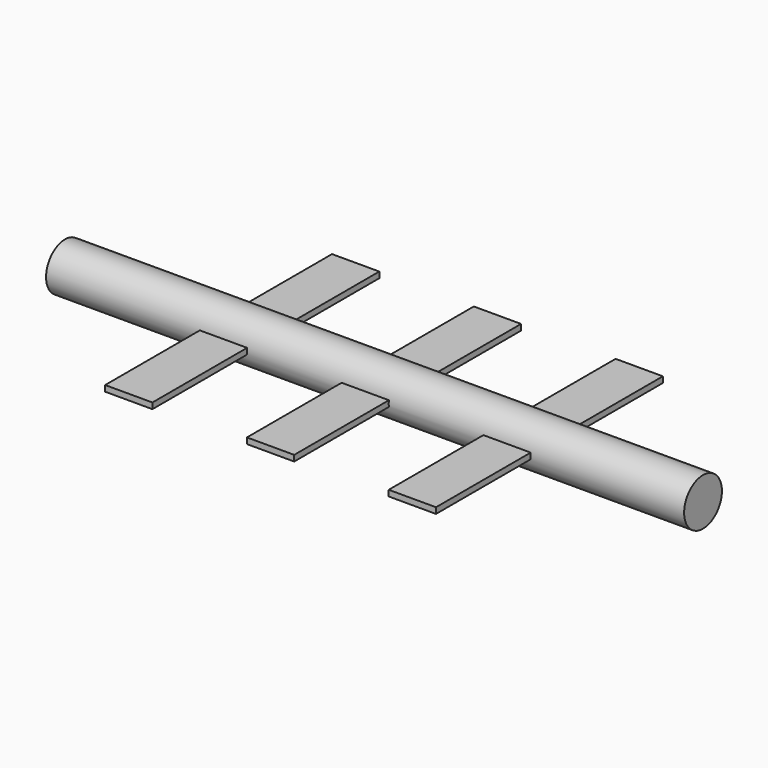
from build123d import *

# Parameters (mm, degrees)
F1_W     = 25.4
F1_H     = 3.175
F4_DEPTH = 76.2
F2_W     = 25.4
F2_H     = 3.175
F3_W     = 25.4
F3_H     = 3.175
F0_W     = 342.9
F0_H     = 12.7


with BuildPart() as f4:
    # F1 (on face) → F4 (new body, symmetric)
    with BuildSketch(Plane.XZ):
        with Locations((-247.65, 0)):
            Rectangle(F1_W, F1_H)
    extrude(amount=F4_DEPTH, both=True)



with BuildPart() as f4b:
    # F2 (on face) → F4, piece 2 (new body, symmetric)
    with BuildSketch(Plane.XZ):
        with Locations((-171.45, 0)):
            Rectangle(F2_W, F2_H)
    extrude(amount=F4_DEPTH, both=True)


with BuildPart() as f4c:
    # F3 (on face) → F4, piece 3 (new body, symmetric)
    with BuildSketch(Plane.XZ):
        with Locations((-95.25, 0)):
            Rectangle(F3_W, F3_H)
    extrude(amount=F4_DEPTH, both=True)


with BuildPart() as f4_1:
    add(f4.part)

    add(f4b.part)  # F5 merges F4b

    add(f4c.part)  # F5 merges F4c
    # F0 (on Front) → F5 (revolve)
    with BuildSketch(Plane.XZ):
        with Locations((-171.45, 6.35)):
            Rectangle(F0_W, F0_H)
    revolve(axis=Axis((-171.45, 0, 0), (-1, 0, 0)))


solid = f4_1.part
